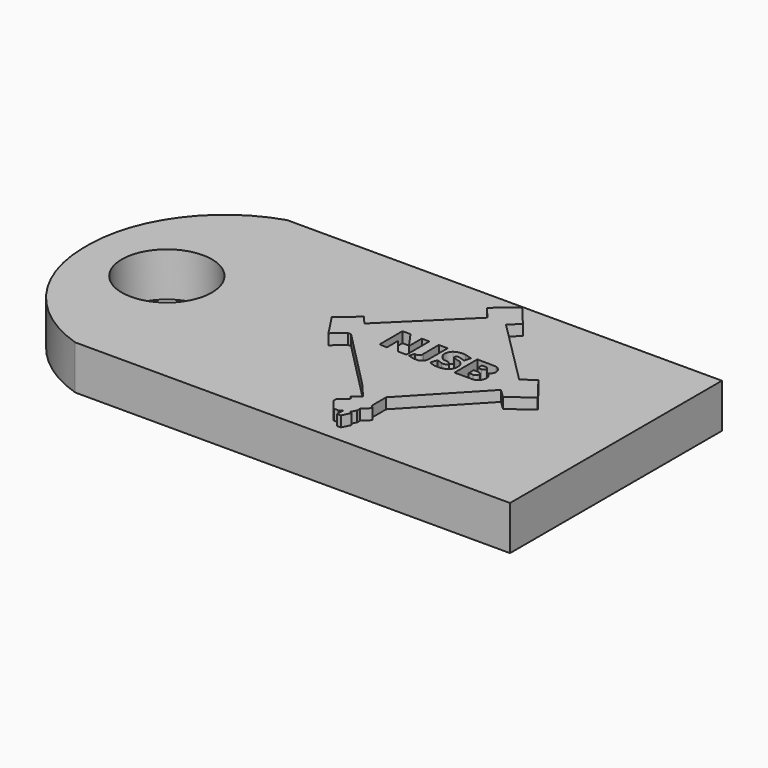
from build123d import *

# Parameters (mm, degrees)
F0_W     = 38.1
F0_H     = 19.05
F1_DEPTH = 3.175
F2_R     = 3.239621
F3_DEPTH = 3.176
F5_DEPTH = 0.762


with BuildPart() as f1:
    # F0 (on Top) → F1 (new body)
    with BuildSketch(Plane.XY):
        with Locations((-19.05, 9.525)):
            Rectangle(F0_W, F0_H)
    extrude(amount=F1_DEPTH)

    # F2 (on face) → F3 (cut, through all)
    with BuildSketch(Plane.XY.offset(3.175)):
        with BuildLine():
            ThreePointArc((-38.1, 9.877407), (-36.161286, 15.559844), (-31.275846, 19.05))
            Line((-31.275846, 19.05), (-38.1, 19.05))
            Line((-38.1, 19.05), (-38.1, 9.877407))
        make_face()
        with BuildLine():
            ThreePointArc((-31.275846, 0), (-36.161286, 3.490156), (-38.1, 9.172593))
            Line((-38.1, 9.172593), (-38.1, 0))
            Line((-38.1, 0), (-31.275846, 0))
        make_face()
        with Locations((-32.302372, 9.525)):
            Circle(F2_R)
    extrude(amount=-F3_DEPTH, mode=Mode.SUBTRACT)

    # F4 (on face) → F5 (join)
    with BuildSketch(Plane.XY.offset(3.175)):
        Polygon((-12.133155, 16.323839), (-13.419535, 17.867444), (-14.930828, 16.581235), (-14.155187, 15.669858), (-19.111004, 10.793301), (-19.653987, 11.431306), (-21.029584, 10.260583), (-19.947039, 8.606749), (-19.111004, 9.318269), (-18.885918, 9.318269), (-14.609277, 4.973212), (-14.512812, 5.356764), (-14.512812, 5.616316), (-14.239308, 6.20037), (-14.159105, 6.484506), (-12.678197, 6.066489), (-12.678197, 5.356764), (-12.937207, 5.101833), (-12.937207, 4.555195), (-12.549366, 4.555195), (-8.081773, 9.282008), (-7.436184, 8.671823), (-5.89522, 9.860801), (-7.199443, 11.551126), (-8.05396, 10.891797), (-12.808586, 15.648736), align=None)
        Polygon((-16.313503, 9.314163), (-16.86014, 9.346317), (-16.86014, 11.40425), (-16.281348, 11.40425), (-15.445312, 10.214509), (-15.445312, 11.372095), (-14.898674, 11.372095), (-14.898674, 9.314163), (-15.509622, 9.314163), (-16.313503, 10.310974), align=None, mode=Mode.SUBTRACT)
        with BuildLine():
            Line((-14.210255, 9.967692), (-14.223414, 11.372095))
            Line((-14.223414, 11.372095), (-13.580311, 11.372095))
            Line((-13.580311, 11.372095), (-13.580311, 9.642933))
            ThreePointArc((-13.580311, 9.642933), (-13.703139, 9.33071), (-14.005777, 9.185865))
            ThreePointArc((-14.005777, 9.185865), (-14.361345, 9.206839), (-14.703408, 9.306146))
            Line((-14.703408, 9.306146), (-14.595155, 9.691046))
            ThreePointArc((-14.595155, 9.691046), (-14.309597, 9.699827), (-14.210255, 9.967692))
        make_face(mode=Mode.SUBTRACT)
        with BuildLine():
            Line((-12.309813, 11.38701), (-11.792604, 11.230645))
            Line((-11.792604, 11.230645), (-11.919432, 10.779702))
            Line((-11.919432, 10.779702), (-12.419279, 10.920285))
            ThreePointArc((-12.419279, 10.920285), (-12.566064, 10.888649), (-12.622545, 10.74952))
            ThreePointArc((-12.622545, 10.74952), (-12.370625, 10.614414), (-12.093307, 10.545042))
            ThreePointArc((-12.093307, 10.545042), (-11.848866, 10.36705), (-11.732464, 10.087973))
            ThreePointArc((-11.732464, 10.087973), (-11.733256, 9.7951), (-11.840717, 9.522652))
            ThreePointArc((-11.840717, 9.522652), (-12.10655, 9.335291), (-12.419279, 9.246006))
            Line((-12.419279, 9.246006), (-12.827022, 9.246006))
            Line((-12.827022, 9.246006), (-13.272062, 9.390343))
            Line((-13.272062, 9.390343), (-13.113701, 9.878622))
            Line((-13.113701, 9.878622), (-12.726019, 9.752887))
            ThreePointArc((-12.726019, 9.752887), (-12.49708, 9.751795), (-12.309813, 9.883496))
            ThreePointArc((-12.309813, 9.883496), (-12.54216, 10.088347), (-12.851078, 10.111114))
            ThreePointArc((-12.851078, 10.111114), (-13.120867, 10.31145), (-13.28409, 10.605182))
            ThreePointArc((-13.28409, 10.605182), (-13.263213, 10.944513), (-13.079613, 11.230645))
            ThreePointArc((-13.079613, 11.230645), (-12.708492, 11.376665), (-12.309813, 11.38701))
        make_face(mode=Mode.SUBTRACT)
        with BuildLine():
            Line((-11.43176, 9.294118), (-11.43176, 11.350926))
            Line((-11.43176, 11.350926), (-10.087523, 11.330864))
            Line((-10.087523, 11.330864), (-9.940274, 11.266729))
            ThreePointArc((-9.940274, 11.266729), (-9.644752, 10.815674), (-9.940274, 10.36462))
            ThreePointArc((-9.940274, 10.36462), (-9.820796, 10.300702), (-9.711741, 10.220283))
            ThreePointArc((-9.711741, 10.220283), (-9.661743, 9.61308), (-10.180837, 9.294118))
            Line((-10.180837, 9.294118), (-11.43176, 9.294118))
        make_face(mode=Mode.SUBTRACT)
        with BuildLine():
            Line((-10.445168, 10.196227), (-10.770215, 10.208255))
            Line((-10.770215, 10.208255), (-10.770215, 9.751187))
            Line((-10.770215, 9.751187), (-10.445168, 9.746336))
            ThreePointArc((-10.445168, 9.746336), (-10.216841, 9.971281), (-10.445168, 10.196227))
        make_face()
        with BuildLine():
            Line((-10.770215, 10.929941), (-10.770215, 10.55707))
            Line((-10.770215, 10.55707), (-10.493567, 10.55707))
            ThreePointArc((-10.493567, 10.55707), (-10.307132, 10.743506), (-10.493567, 10.929941))
            Line((-10.493567, 10.929941), (-10.770215, 10.929941))
        make_face()
        Polygon((-12.549366, 3.912091), (-12.549366, 4.555195), (-12.937207, 4.555195), (-12.937207, 5.101833), (-12.678197, 5.356764), (-12.678197, 6.066489), (-14.159105, 6.484506), (-14.239308, 6.20037), (-14.512812, 5.616316), (-14.512812, 5.356764), (-14.609277, 4.973212), (-14.421192, 4.752211), (-14.170298, 4.457412), (-13.643861, 3.838849), (-14.170298, 3.390817), (-13.987954, 3.176562), (-14.609277, 2.647775), (-14.609277, 2.368642), (-14.346565, 2.059955), (-13.987954, 1.638587), (-13.643861, 1.638587), (-13.430775, 1.819937), (-13.430775, 1.24321), (-13.162293, 1.24321), (-12.872897, 1.819937), (-13.028217, 1.897875), (-12.827437, 2.298001), (-12.827437, 2.561572), (-12.326258, 3.0439), (-12.549366, 3.275728), align=None)
    extrude(amount=F5_DEPTH)


solid = f1.part
